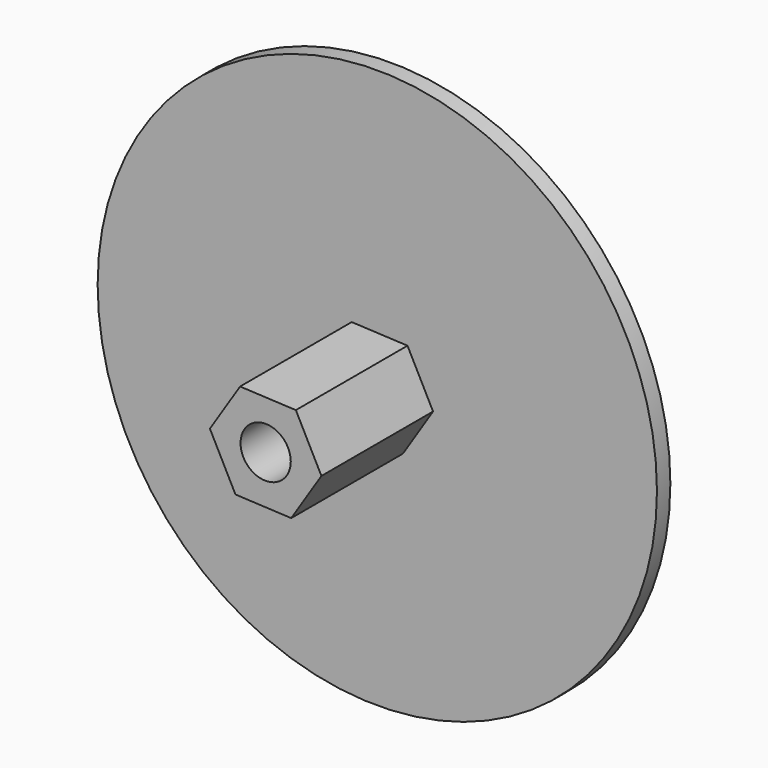
from build123d import *

# Parameters (mm, degrees)
F0_R     = 50.1
F0_R_2   = 4.5
F1_DEPTH = 3
F2_R     = 4.5
F3_DEPTH = 25


with BuildPart() as f1:
    # F0 (on Front) → F1 (new body)
    with BuildSketch(Plane.XZ):
        Circle(F0_R)
        Circle(F0_R_2, mode=Mode.SUBTRACT)
    extrude(amount=F1_DEPTH)

    # F2 (on face) → F3 (join)
    with BuildSketch(Plane.XZ.offset(3)):
        Polygon((-4.58071, 8.889156), (-9.98859, 0.477567), (-5.40788, -8.411589), (4.58071, -8.889156), (9.98859, -0.477567), (5.40788, 8.411589), align=None)
        Circle(F2_R, mode=Mode.SUBTRACT)
    extrude(amount=F3_DEPTH)


solid = f1.part
